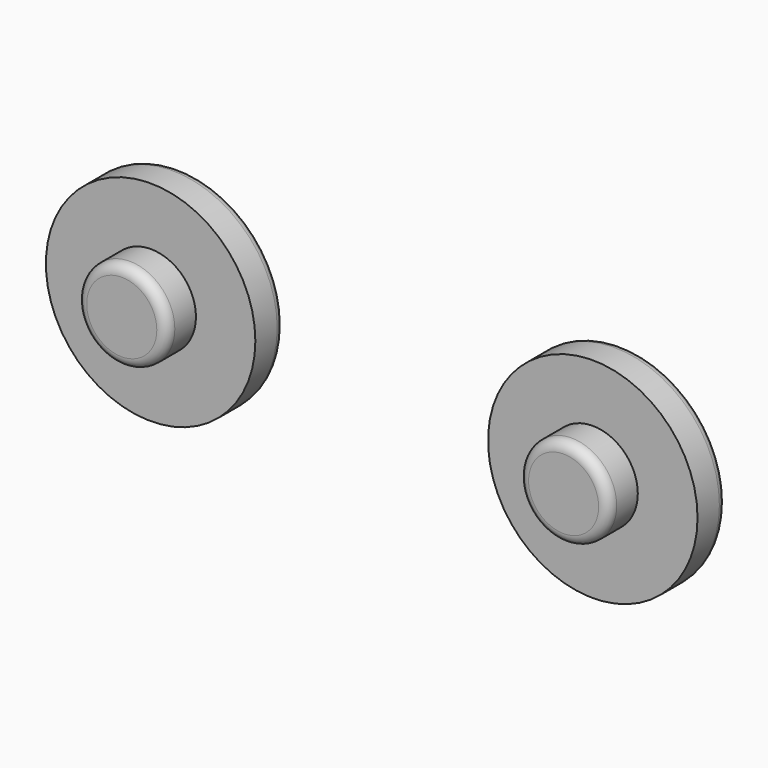
from build123d import *

# Parameters (mm, degrees)
F0_R     = 5.7531
F1_DEPTH = 2
F2_R     = 0.5
F3_R     = 2.475
F4_DEPTH = 2
F5_R     = 0.55


with BuildPart() as f1:
    # F0 (on Front) → F1 (new body)
    with BuildSketch(Plane.XZ):
        with Locations((-31.022297, 53.91805)):
            Circle(F0_R)
        with Locations((-55.310542, 54.574311)):
            Circle(F0_R)
    extrude(amount=-F1_DEPTH)

    # F2
    f2_edges = [f1.edges().sort_by_distance(p)[0] for p in [
        (-36.775397, 2, 53.91805),
        (-61.063642, 2, 54.574311),
    ]]
    fillet(f2_edges, radius=F2_R)


with BuildPart() as f4:
    # F3 (on Front) → F4 (new body)
    with BuildSketch(Plane.XZ):
        with Locations((-55.295511, 54.676309)):
            Circle(F3_R)
        with Locations((-31.025198, 54.021109)):
            Circle(F3_R)
    extrude(amount=F4_DEPTH)

    # F5
    f5_edges = [f4.edges().sort_by_distance(p)[0] for p in [
        (-57.770511, -2, 54.676309),
        (-33.500198, -2, 54.021109),
    ]]
    fillet(f5_edges, radius=F5_R)


solid = Compound([f1.part, f4.part])
